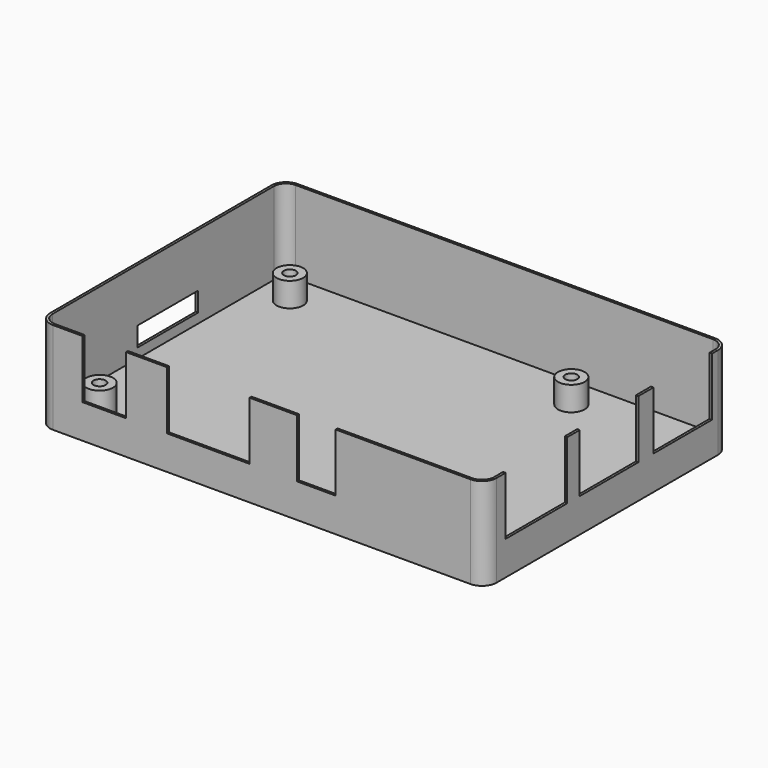
from build123d import *

# Parameters (mm, degrees)
F1_DEPTH = 2
F2_DEPTH = 19
F3_R     = 2.75
F3_R_2   = 1.25
F4_DEPTH = 5
F5_W     = 9
F5_H     = 0.5
F5_W_2   = 17
F5_W_3   = 8
F5_W_4   = 0.5
F5_H_2   = 15.1
F5_H_3   = 15.9
F6_DEPTH = 12
F7_W     = 15.6
F7_H     = 4
F8_DEPTH = 0.5


with BuildPart() as f1:
    # F0 (on Top) → F1 (new body)
    with BuildSketch(Plane.XY):
        with BuildLine():
            Line((88.5, 62.5), (2.5, 62.5))
            ThreePointArc((2.5, 62.5), (0.3786796564, 61.6213203436), (-0.5, 59.5))
            Line((-0.5, 59.5), (-0.5, 2.5))
            ThreePointArc((-0.5, 2.5), (0.3786796564, 0.3786796564), (2.5, -0.5))
            Line((2.5, -0.5), (88.5, -0.5))
            ThreePointArc((88.5, -0.5), (90.6213203436, 0.3786796564), (91.5, 2.5))
            Line((91.5, 2.5), (91.5, 59.5))
            ThreePointArc((91.5, 59.5), (90.6213203436, 61.6213203436), (88.5, 62.5))
        make_face()
        with BuildLine():
            Line((88.5, 0), (2.5, 0))
            ThreePointArc((2.5, 0), (0.732233047, 0.732233047), (0, 2.5))
            Line((0, 2.5), (0, 59.5))
            ThreePointArc((0, 59.5), (0.732233047, 61.267766953), (2.5, 62))
            Line((2.5, 62), (88.5, 62))
            ThreePointArc((88.5, 62), (90.267766953, 61.267766953), (91, 59.5))
            Line((91, 59.5), (91, 2.5))
            ThreePointArc((91, 2.5), (90.267766953, 0.732233047), (88.5, 0))
        make_face(mode=Mode.SUBTRACT)
        with BuildLine():
            ThreePointArc((0, 2.5), (0.732233047, 0.732233047), (2.5, 0))
            Line((2.5, 0), (88.5, 0))
            ThreePointArc((88.5, 0), (90.267766953, 0.732233047), (91, 2.5))
            Line((91, 2.5), (91, 59.5))
            ThreePointArc((91, 59.5), (90.267766953, 61.267766953), (88.5, 62))
            Line((88.5, 62), (2.5, 62))
            ThreePointArc((2.5, 62), (0.732233047, 61.267766953), (0, 59.5))
            Line((0, 59.5), (0, 2.5))
        make_face()
    extrude(amount=F1_DEPTH)

    # F0 (on Top) → F2 (join)
    with BuildSketch(Plane.XY):
        with BuildLine():
            Line((88.5, 62.5), (2.5, 62.5))
            ThreePointArc((2.5, 62.5), (0.3786796564, 61.6213203436), (-0.5, 59.5))
            Line((-0.5, 59.5), (-0.5, 2.5))
            ThreePointArc((-0.5, 2.5), (0.3786796564, 0.3786796564), (2.5, -0.5))
            Line((2.5, -0.5), (88.5, -0.5))
            ThreePointArc((88.5, -0.5), (90.6213203436, 0.3786796564), (91.5, 2.5))
            Line((91.5, 2.5), (91.5, 59.5))
            ThreePointArc((91.5, 59.5), (90.6213203436, 61.6213203436), (88.5, 62.5))
        make_face()
        with BuildLine():
            Line((88.5, 0), (2.5, 0))
            ThreePointArc((2.5, 0), (0.732233047, 0.732233047), (0, 2.5))
            Line((0, 2.5), (0, 59.5))
            ThreePointArc((0, 59.5), (0.732233047, 61.267766953), (2.5, 62))
            Line((2.5, 62), (88.5, 62))
            ThreePointArc((88.5, 62), (90.267766953, 61.267766953), (91, 59.5))
            Line((91, 59.5), (91, 2.5))
            ThreePointArc((91, 2.5), (90.267766953, 0.732233047), (88.5, 0))
        make_face(mode=Mode.SUBTRACT)
    extrude(amount=F2_DEPTH)

    # F3 (on face) → F4 (join)
    with BuildSketch(Plane.XY.offset(2)):
        with Locations((6.5, 55.5)):
            Circle(F3_R)
        with Locations((6.5, 55.5)):
            Circle(F3_R_2, mode=Mode.SUBTRACT)
        with Locations((64.5, 55.5)):
            Circle(F3_R)
        with Locations((64.5, 55.5)):
            Circle(F3_R_2, mode=Mode.SUBTRACT)
        with Locations((6.5, 6.5)):
            Circle(F3_R)
        with Locations((6.5, 6.5)):
            Circle(F3_R_2, mode=Mode.SUBTRACT)
        with Locations((64.5, 6.5)):
            Circle(F3_R)
        with Locations((64.5, 6.5)):
            Circle(F3_R_2, mode=Mode.SUBTRACT)
    extrude(amount=F4_DEPTH)

    # F5 (on face) → F6 (cut)
    with BuildSketch(Plane.XY.offset(19)):
        with Locations((13.05, -0.25)):
            Rectangle(F5_W, F5_H)
        with Locations((34.5, -0.25)):
            Rectangle(F5_W_2, F5_H)
        with Locations((56.75, -0.25)):
            Rectangle(F5_W_3, F5_H)
        with Locations((91.25, 50.45)):
            Rectangle(F5_W_4, F5_H_2)
        with Locations((91.25, 31.45)):
            Rectangle(F5_W_4, F5_H_2)
        with Locations((91.25, 12.75)):
            Rectangle(F5_W_4, F5_H_3)
    extrude(amount=-F6_DEPTH, mode=Mode.SUBTRACT)

    # F7 (on face) → F8 (cut)
    with BuildSketch(Plane(origin=(-0.5, 0, 0), x_dir=(0, -1, 0), z_dir=(-1, 0, 0))):
        with Locations((-32.2, 6)):
            Rectangle(F7_W, F7_H)
    extrude(amount=-F8_DEPTH, mode=Mode.SUBTRACT)


solid = f1.part
